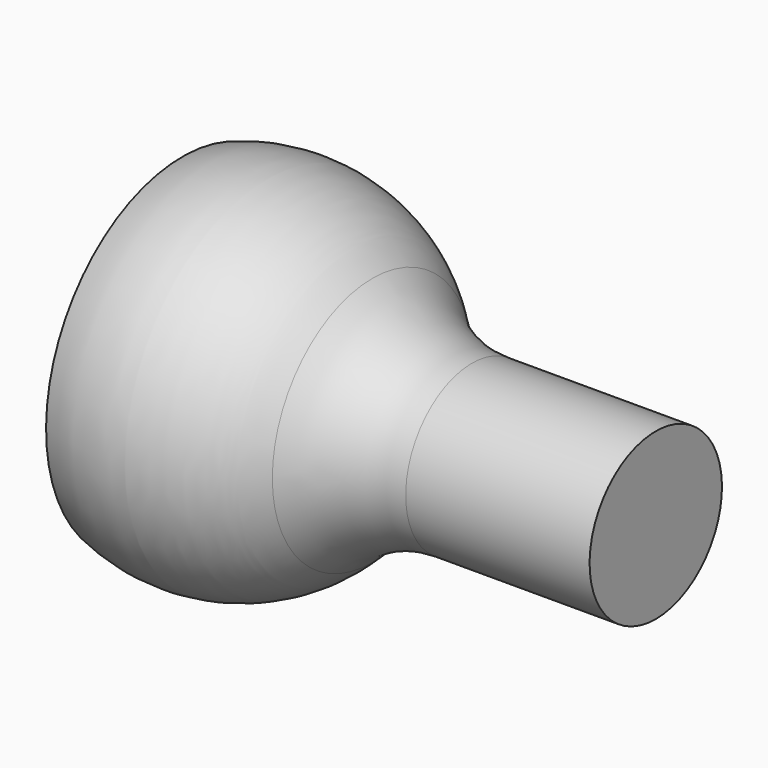
from build123d import *

# Parameters (mm, degrees)
F3_DEPTH = 25
F4_R     = 5


with BuildPart() as f1:
    # F0 (on Front) → F1 (revolve)
    with BuildSketch(Plane.XZ):
        with BuildLine():
            Line((0, -3), (0, 0))
            Line((0, 0), (-9.95, 0))
            ThreePointArc((-9.95, 0), (-12.156265, -4.173209), (-16.847295, -4.7))
            Line((-16.847295, -4.7), (-16.912947, -4.7))
            ThreePointArc((-16.912947, -4.7), (-17.040744, -4.710788), (-17.164925, -4.742846))
            Line((-17.164925, -4.742846), (-17.164925, -6.181877))
            ThreePointArc((-17.164925, -6.181877), (-12.576015, -6.084965), (-9.177415, -3))
            Line((-9.177415, -3), (0, -3))
        make_face()
    revolve(axis=Axis((-4.975, 0, 0), (-1, 0, 0)))

    # F2 (on Front) → F3 (cut)
    with BuildSketch(Plane.XZ):
        with BuildLine():
            Line((-18.563313, -3.999534), (-15.06104, -3.999534))
            ThreePointArc((-15.06104, -3.999534), (-11.000091, -0.026907), (-15.007228, 3.999993))
            Line((-15.007228, 3.999993), (-18.577756, 3.993542))
            Line((-18.577756, 3.993542), (-18.563313, -3.999534))
        make_face()
    extrude(amount=-F3_DEPTH, mode=Mode.SUBTRACT)

    # F4
    f4_edges = [f1.edges().sort_by_distance(p)[0] for p in [
        (-9.177415, 0, 3),
    ]]
    fillet(f4_edges, radius=F4_R)


solid = f1.part
